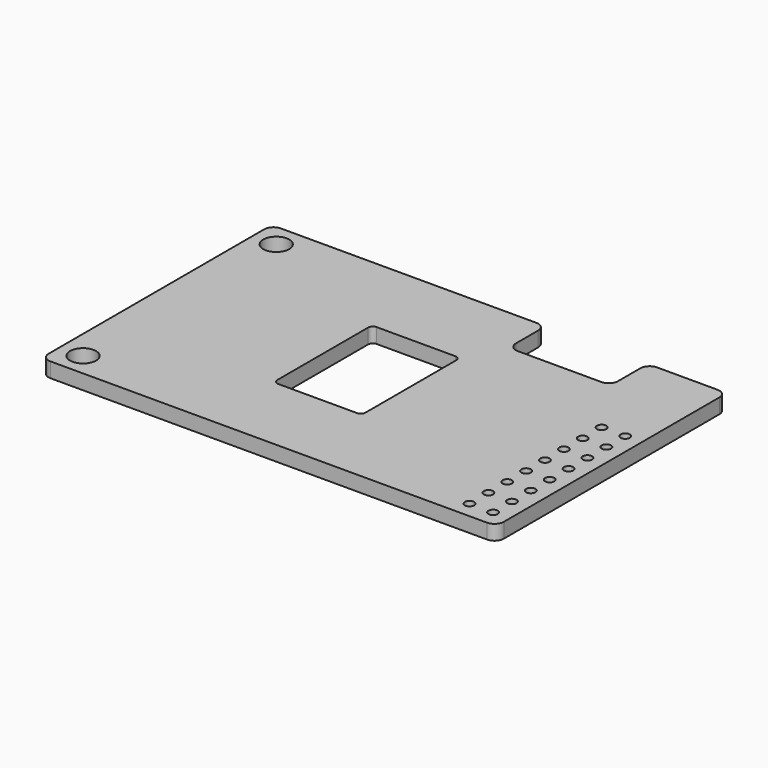
from build123d import *

# Parameters (mm, degrees)
SKETCH001_W         = 49
SKETCH001_H         = 31
SKETCH001_W_2       = 9.5
SKETCH001_H_2       = 13.25
PAD_DEPTH           = 1.6
SKETCH002_R         = 0.5
HOLE_DEPTH          = 25
LINEARPATTERN_COUNT = 8
LINEARPATTERN_PITCH = 2.54
SKETCH003_W         = 11
SKETCH003_H         = 5
POCKET_DEPTH        = 1.601
SKETCH004_R         = 1.4
HOLE001_DEPTH       = 25
FILLET_R            = 1
FILLET001_R         = 0.5
FILLET002_R         = 1


with BuildPart() as part:
    # Sketch001 → Pad (new body)
    with BuildSketch(Plane.XY):
        with Locations((-24.5, 15.5)):
            Rectangle(SKETCH001_W, SKETCH001_H)
        with Locations((-26.25, 15.375)):
            Rectangle(SKETCH001_W_2, SKETCH001_H_2, mode=Mode.SUBTRACT)
    extrude(amount=PAD_DEPTH)

    # Sketch002 (on Face10 of Pad) → Hole (cut)
    with BuildSketch(Plane.XY.offset(1.6)):
        with Locations((-1.78, 1.78)):
            Circle(SKETCH002_R)
        with Locations((-4.32, 1.78)):
            Circle(SKETCH002_R)
    hole = extrude(amount=-HOLE_DEPTH, mode=Mode.SUBTRACT)

    # LinearPattern: Hole ×8
    with Locations(*[(0, i * LINEARPATTERN_PITCH, 0) for i in range(1, LINEARPATTERN_COUNT)]):
        add(hole, mode=Mode.SUBTRACT)

    # Sketch003 (on Face5 of LinearPattern) → Pocket (cut, through all)
    with BuildSketch(Plane.XY.offset(1.6)):
        with Locations((-14, 28.5)):
            Rectangle(SKETCH003_W, SKETCH003_H)
    extrude(amount=-POCKET_DEPTH, mode=Mode.SUBTRACT)

    # Sketch004 (on Face5 of Pocket) → Hole001 (cut)
    with BuildSketch(Plane.XY.offset(1.6)):
        with Locations((-46.5, 28.5)):
            Circle(SKETCH004_R)
        with Locations((-46.5, 2.5)):
            Circle(SKETCH004_R)
    extrude(amount=-HOLE001_DEPTH, mode=Mode.SUBTRACT)

    # Fillet
    fillet_edges = [part.edges().sort_by_distance(p)[0] for p in [
        (-8.5, 26, 0.8),
        (-19.5, 26, 0.8),
        (-19.5, 31, 0.8),
        (-8.5, 31, 0.8),
        (0, 31, 0.8),
        (0, 0, 0.8),
    ]]
    fillet(fillet_edges, radius=FILLET_R)

    # Fillet001
    fillet001_edges = [part.edges().sort_by_distance(p)[0] for p in [
        (-21.5, 22, 0.8),
        (-21.5, 8.75, 0.8),
        (-31, 8.75, 0.8),
        (-31, 22, 0.8),
    ]]
    fillet(fillet001_edges, radius=FILLET001_R)

    # Fillet002
    fillet002_edges = [part.edges().sort_by_distance(p)[0] for p in [
        (-49, 31, 0.8),
        (-49, 0, 0.8),
    ]]
    fillet(fillet002_edges, radius=FILLET002_R)


solid = part.part
